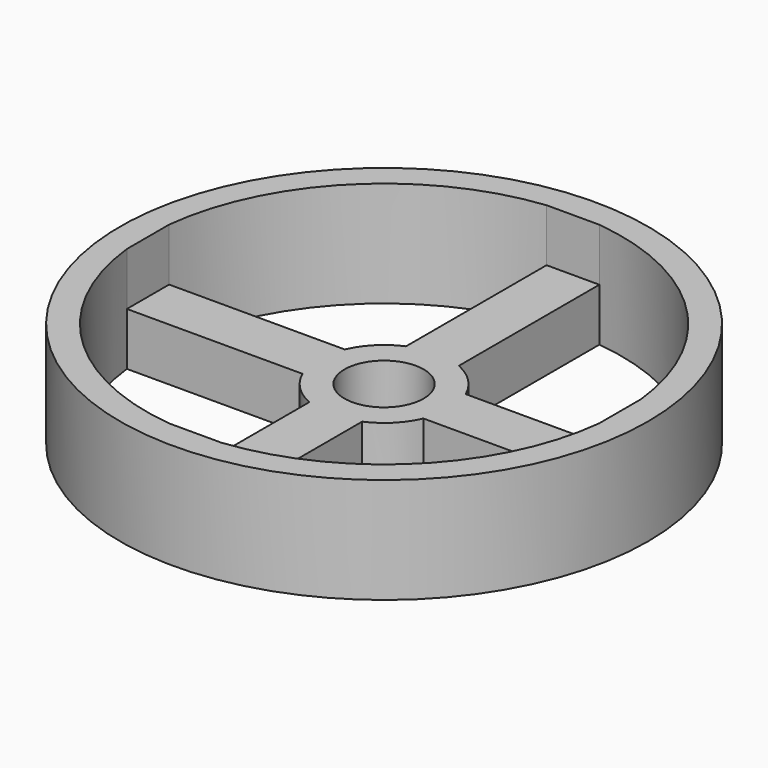
from build123d import *

# Parameters (mm, degrees)
F0_R     = 1.5
F1_DEPTH = 2
F0_R_2   = 10
F2_DEPTH = 4


with BuildPart() as f1:
    # F0 (on Top) → F1 (new body)
    with BuildSketch(Plane.XY):
        with BuildLine():
            Line((-8.944272, 1), (-8.944272, -1))
            Line((-8.944272, -1), (-2.291288, -1))
            ThreePointArc((-2.291288, -1), (-1.767767, -1.767767), (-1, -2.291288))
            Line((-1, -2.291288), (-1, -8.944272))
            Line((-1, -8.944272), (1, -8.944272))
            Line((1, -8.944272), (1, -2.291288))
            ThreePointArc((1, -2.291288), (1.767767, -1.767767), (2.291288, -1))
            Line((2.291288, -1), (8.944272, -1))
            Line((8.944272, -1), (8.944272, 1))
            Line((8.944272, 1), (2.291288, 1))
            ThreePointArc((2.291288, 1), (1.767767, 1.767767), (1, 2.291288))
            Line((1, 2.291288), (1, 8.944272))
            Line((1, 8.944272), (-1, 8.944272))
            Line((-1, 8.944272), (-1, 2.291288))
            ThreePointArc((-1, 2.291288), (-1.767767, 1.767767), (-2.291288, 1))
            Line((-2.291288, 1), (-8.944272, 1))
        make_face()
        Circle(F0_R, mode=Mode.SUBTRACT)
    extrude(amount=F1_DEPTH)

    # F0 (on Top) → F2 (join)
    with BuildSketch(Plane.XY):
        Circle(F0_R_2)
        with BuildLine():
            ThreePointArc((-1, -8.944272), (-6.363961, -6.363961), (-8.944272, -1))
            Line((-8.944272, -1), (-8.944272, 1))
            ThreePointArc((-8.944272, 1), (-6.363961, 6.363961), (-1, 8.944272))
            Line((-1, 8.944272), (1, 8.944272))
            ThreePointArc((1, 8.944272), (6.363961, 6.363961), (8.944272, 1))
            Line((8.944272, 1), (8.944272, -1))
            ThreePointArc((8.944272, -1), (6.363961, -6.363961), (1, -8.944272))
            Line((1, -8.944272), (-1, -8.944272))
        make_face(mode=Mode.SUBTRACT)
    extrude(amount=F2_DEPTH)


solid = f1.part
